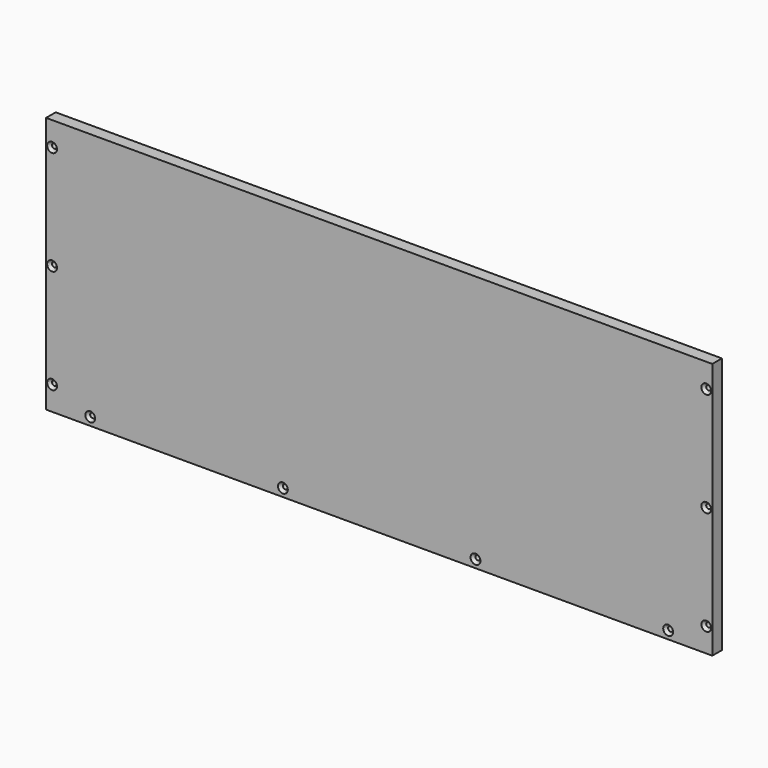
from build123d import *

# Parameters (mm, degrees)
F0_W           = 527.05
F0_H           = 203.2
F1_DEPTH       = 9.525
F3_D           = 3.7973
F3_DEPTH       = 13.4874
F3_CSINK_D     = 7.7978
F3_CSINK_ANGLE = 82
F3_TIP         = 1.1408240143


with BuildPart() as f1:
    # F0 (on Front) → F1 (new body)
    with BuildSketch(Plane.XZ):
        with Locations((-263.525, 101.6)):
            Rectangle(F0_W, F0_H)
    extrude(amount=F1_DEPTH)

    # F3
    with Locations(Plane.XZ.offset(9.525)):
        with Locations((-4.7625, 184.15), (-4.7625, 101.6), (-4.7625, 19.05), (-34.925, 6.35), (-187.325, 6.35), (-339.725, 6.35), (-492.125, 6.35), (-522.2875, 19.05), (-522.2875, 101.6), (-522.2875, 184.15)):
            CounterSinkHole(F3_D / 2, F3_CSINK_D / 2, depth=F3_DEPTH, counter_sink_angle=F3_CSINK_ANGLE)
            with Locations((0, 0, -(F3_DEPTH + F3_TIP / 2))):  # 118° drill point
                Cone(0, F3_D / 2, F3_TIP, mode=Mode.SUBTRACT)


solid = f1.part
